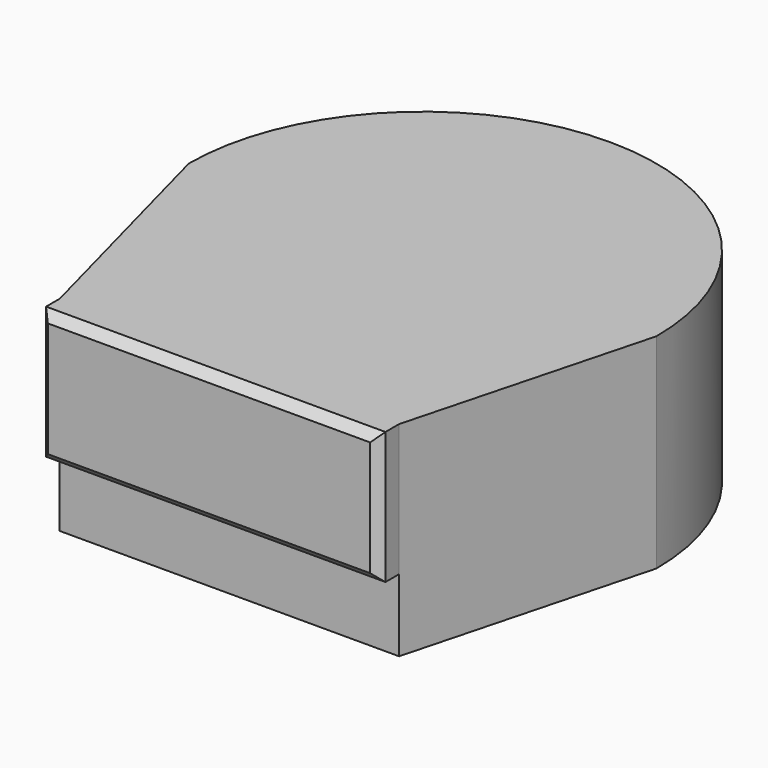
from build123d import *

# Parameters (mm, degrees)
F1_DEPTH = 609.6
F2_W     = 1011.9250416756
F2_H     = 394.0085991383
F3_DEPTH = 76.2
F4_SIZE  = 25.4


with BuildPart() as f1:
    # F0 (on Top) → F1 (new body)
    with BuildSketch(Plane.XY):
        with BuildLine():
            Line((505.9625208378, -720.0900167227), (605.3317958883, -345.9813431194))
            ThreePointArc((605.3317958883, -345.9813431194), (0, -697.23), (-605.3317958883, -345.9813431194))
            Line((-605.3317958883, -345.9813431194), (-505.9625208378, -720.0900167227))
            Line((-505.9625208378, -720.0900167227), (505.9625208378, -720.0900167227))
        make_face()
        with BuildLine():
            Line((605.3317958883, -345.9813431194), (697.23, 0))
            ThreePointArc((697.23, 0), (0, 697.23), (-697.23, 0))
            Line((-697.23, 0), (-605.3317958883, -345.9813431194))
            ThreePointArc((-605.3317958883, -345.9813431194), (0, -697.23), (605.3317958883, -345.9813431194))
        make_face()
    extrude(amount=F1_DEPTH)

    # F2 (on face) → F3 (join)
    with BuildSketch(Plane.XZ.offset(720.0900167227)):
        with Locations((0, 412.5957004309)):
            Rectangle(F2_W, F2_H)
    extrude(amount=F3_DEPTH)

    # F4
    f4_edges = [f1.edges().sort_by_distance(p)[0] for p in [
        (0, -796.290017, 609.6),
        (505.962521, -796.290017, 412.5957),
        (0, -796.290017, 215.591401),
        (-505.962521, -796.290017, 412.5957),
    ]]
    chamfer(f4_edges, length=F4_SIZE)


solid = f1.part
